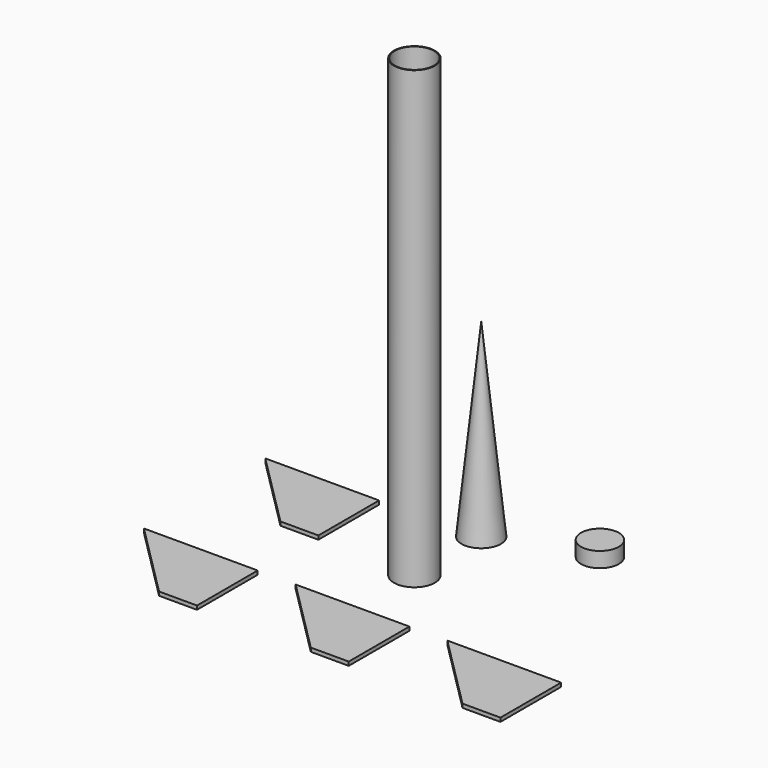
from build123d import *

# Parameters (mm, degrees)
F0_R      = 6.858
F1_DEPTH  = 152.4
F2_R      = 6.604
F3_DEPTH  = 304.8
F7_DEPTH  = 1.27
F11_R     = 6.3373
F12_DEPTH = 5.08


with BuildPart() as f1:
    # F0 (on Top) → F1 (new body)
    with BuildSketch(Plane.XY):
        Circle(F0_R)
    extrude(amount=F1_DEPTH)

    # F2 (on face) → F3 (cut)
    with BuildSketch(Plane.XY.offset(152.4)):
        Circle(F2_R)
    extrude(amount=-F3_DEPTH, mode=Mode.SUBTRACT)


with BuildPart() as f5:
    # F4 (on Right) → F5 (revolve)
    with BuildSketch(Plane.YZ):
        Polygon((27.975647, 63.5), (27.975647, 0), (34.579647, 0), align=None)
    revolve(axis=Axis((0, 27.975647, 31.75), (0, 0, 1)))


with BuildPart() as f7:
    # F6 (on Top) → F7 (new body)
    with BuildSketch(Plane.XY):
        Polygon((-44.845743, 0), (-32.145743, 0), (-32.145743, 25.4), (-70.245743, 25.4), align=None)
    extrude(amount=F7_DEPTH)


with BuildPart() as f8_1:
    # F8: copy of F7
    add(f7.part.moved(Location((0, -50.8, 0))))


with BuildPart() as f9_1:
    # F9: copy of F8_1
    add(f8_1.part.moved(Location((50.8, 0, 0))))


with BuildPart() as f10_1:
    # F10: copy of F9_1
    add(f9_1.part.moved(Location((50.8, 0, 0))))


with BuildPart() as f12:
    # F11 (on Top) → F12 (new body)
    with BuildSketch(Plane.XY):
        with Locations((31.432498, 38.350657)):
            Circle(F11_R)
    extrude(amount=F12_DEPTH)


solid = Compound([f1.part, f5.part, f7.part, f8_1.part, f9_1.part, f10_1.part, f12.part])
